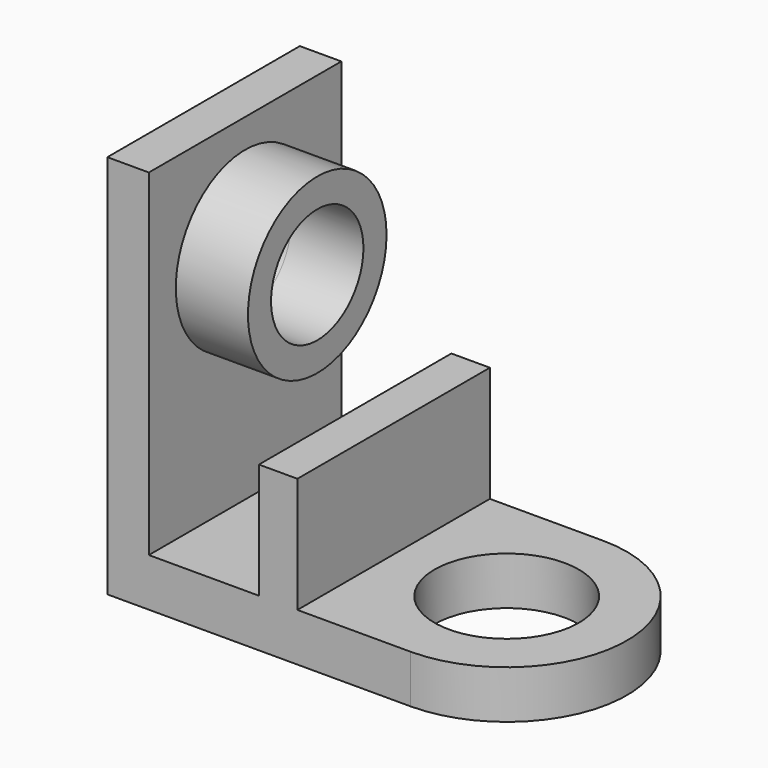
from build123d import *

# Parameters (mm, degrees)
F1_DEPTH = 10
F2_W     = 8
F2_H     = 50
F3_DEPTH = 24
F4_W     = 8.6245508865
F4_H     = 50
F5_DEPTH = 70
F6_R     = 18
F6_R_2   = 12
F7_DEPTH = 15
F8_R     = 12
F9_DEPTH = 8.6245508865


with BuildPart() as f1:
    # F0 (on Top) → F1 (new body)
    with BuildSketch(Plane.XY):
        with BuildLine():
            Line((0, 50), (0, 0))
            Line((0, 0), (63, 0))
            ThreePointArc((63, 0), (88, 25), (63, 50))
            Line((63, 50), (0, 50))
        make_face()
        with BuildLine():
            ThreePointArc((78, 25), (52.3933982822, 14.3933982822), (63, 40))
            ThreePointArc((63, 40), (73.6066017178, 35.6066017178), (78, 25))
        make_face(mode=Mode.SUBTRACT)
    extrude(amount=F1_DEPTH)

    # F2 (on face) → F3 (join)
    with BuildSketch(Plane.XY.offset(10)):
        with Locations((35.5, 25)):
            Rectangle(F2_W, F2_H)
    extrude(amount=F3_DEPTH)

    # F4 (on face) → F5 (join)
    with BuildSketch(Plane.XY.offset(10)):
        with Locations((4.3122754432, 25)):
            Rectangle(F4_W, F4_H)
    extrude(amount=F5_DEPTH)

    # F6 (on face) → F7 (join)
    with BuildSketch(Plane.YZ.offset(8.6245508865)):
        with Locations((25, 56)):
            Circle(F6_R)
        with Locations((25, 56)):
            Circle(F6_R_2, mode=Mode.SUBTRACT)
    extrude(amount=F7_DEPTH)

    # F8 (on face) → F9 (cut, through all)
    with BuildSketch(Plane.YZ.offset(8.6245508865)):
        with Locations((25, 56)):
            Circle(F8_R)
    extrude(amount=-F9_DEPTH, mode=Mode.SUBTRACT)


solid = f1.part
